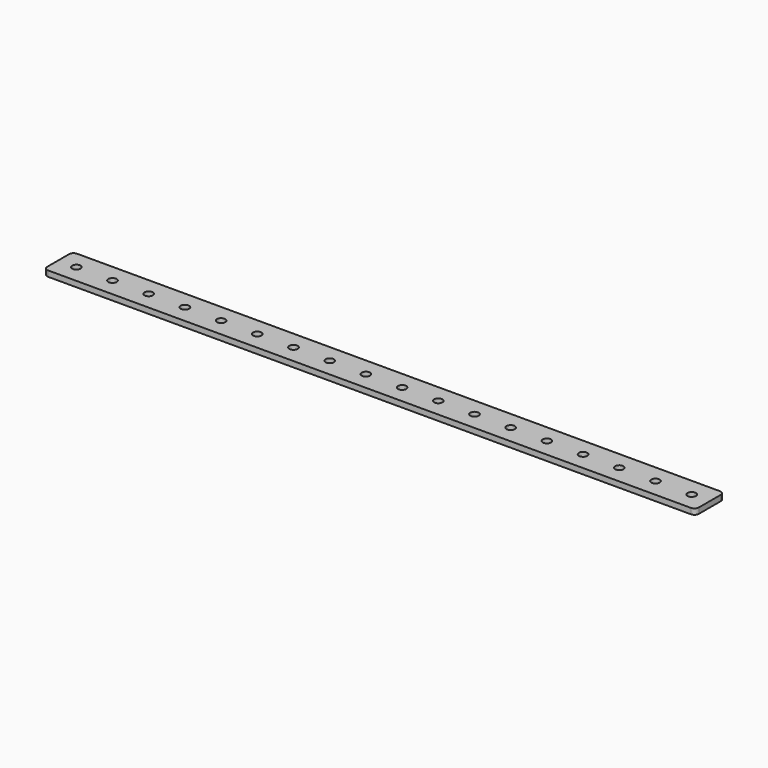
from build123d import *

# Parameters (mm, degrees)
F1_DEPTH = 2.5
F3_D     = 3.7


with BuildPart() as f1:
    # F0 (on Top) → F1 (new body)
    with BuildSketch(Plane.XY):
        with BuildLine():
            ThreePointArc((144, 6), (143.414214, 7.414214), (142, 8))
            Line((142, 8), (-142, 8))
            ThreePointArc((-142, 8), (-143.414214, 7.414214), (-144, 6))
            Line((-144, 6), (-144, -6))
            ThreePointArc((-144, -6), (-143.414214, -7.414214), (-142, -8))
            Line((-142, -8), (142, -8))
            ThreePointArc((142, -8), (143.414214, -7.414214), (144, -6))
            Line((144, -6), (144, 6))
        make_face()
    extrude(amount=F1_DEPTH)

    # F3 (through all)
    with Locations(Plane.XY.offset(2.5)):
        with Locations((-136, 0), (-120, 0), (-104, 0), (-88, 0), (-72, 0), (-56, 0), (-40, 0), (-24, 0), (-8, 0), (8, 0), (24, 0), (40, 0), (56, 0), (72, 0), (88, 0), (88, 0), (104, 0), (120, 0), (136, 0)):
            Hole(F3_D / 2)


solid = f1.part
